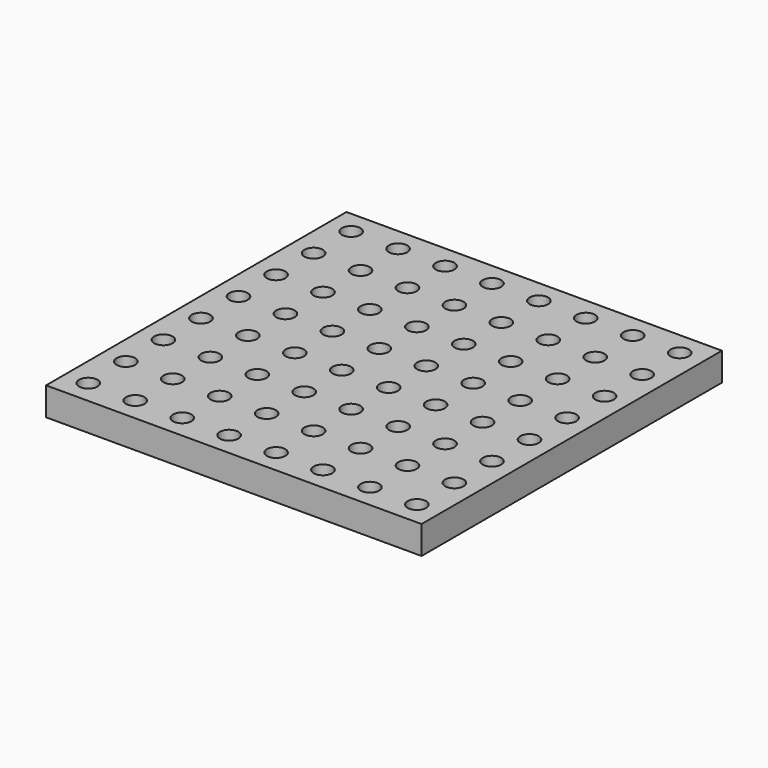
from build123d import *

# Parameters (mm, degrees)
F0_W     = 20.32
F0_H     = 20.32
F0_R     = 0.5
F1_DEPTH = 1.524


with BuildPart() as f1:
    # F0 (on Top) → F1 (new body)
    with BuildSketch(Plane.XY):
        with Locations((8.89, 8.89)):
            Rectangle(F0_W, F0_H)
        Circle(F0_R, mode=Mode.SUBTRACT)
        with Locations((2.54, 0)):
            Circle(F0_R, mode=Mode.SUBTRACT)
        with Locations((0, 2.54)):
            Circle(F0_R, mode=Mode.SUBTRACT)
        with Locations((2.54, 2.54)):
            Circle(F0_R, mode=Mode.SUBTRACT)
        with Locations((5.08, 0)):
            Circle(F0_R, mode=Mode.SUBTRACT)
        with Locations((7.62, 0)):
            Circle(F0_R, mode=Mode.SUBTRACT)
        with Locations((5.08, 2.54)):
            Circle(F0_R, mode=Mode.SUBTRACT)
        with Locations((7.62, 2.54)):
            Circle(F0_R, mode=Mode.SUBTRACT)
        with Locations((0, 5.08)):
            Circle(F0_R, mode=Mode.SUBTRACT)
        with Locations((2.54, 5.08)):
            Circle(F0_R, mode=Mode.SUBTRACT)
        with Locations((0, 7.62)):
            Circle(F0_R, mode=Mode.SUBTRACT)
        with Locations((2.54, 7.62)):
            Circle(F0_R, mode=Mode.SUBTRACT)
        with Locations((5.08, 5.08)):
            Circle(F0_R, mode=Mode.SUBTRACT)
        with Locations((7.62, 5.08)):
            Circle(F0_R, mode=Mode.SUBTRACT)
        with Locations((5.08, 7.62)):
            Circle(F0_R, mode=Mode.SUBTRACT)
        with Locations((7.62, 7.62)):
            Circle(F0_R, mode=Mode.SUBTRACT)
        with Locations((10.16, 0)):
            Circle(F0_R, mode=Mode.SUBTRACT)
        with Locations((12.7, 0)):
            Circle(F0_R, mode=Mode.SUBTRACT)
        with Locations((10.16, 2.54)):
            Circle(F0_R, mode=Mode.SUBTRACT)
        with Locations((12.7, 2.54)):
            Circle(F0_R, mode=Mode.SUBTRACT)
        with Locations((15.24, 0)):
            Circle(F0_R, mode=Mode.SUBTRACT)
        with Locations((17.78, 0)):
            Circle(F0_R, mode=Mode.SUBTRACT)
        with Locations((15.24, 2.54)):
            Circle(F0_R, mode=Mode.SUBTRACT)
        with Locations((17.78, 2.54)):
            Circle(F0_R, mode=Mode.SUBTRACT)
        with Locations((10.16, 5.08)):
            Circle(F0_R, mode=Mode.SUBTRACT)
        with Locations((12.7, 5.08)):
            Circle(F0_R, mode=Mode.SUBTRACT)
        with Locations((10.16, 7.62)):
            Circle(F0_R, mode=Mode.SUBTRACT)
        with Locations((12.7, 7.62)):
            Circle(F0_R, mode=Mode.SUBTRACT)
        with Locations((15.24, 5.08)):
            Circle(F0_R, mode=Mode.SUBTRACT)
        with Locations((17.78, 5.08)):
            Circle(F0_R, mode=Mode.SUBTRACT)
        with Locations((15.24, 7.62)):
            Circle(F0_R, mode=Mode.SUBTRACT)
        with Locations((17.78, 7.62)):
            Circle(F0_R, mode=Mode.SUBTRACT)
        with Locations((0, 10.16)):
            Circle(F0_R, mode=Mode.SUBTRACT)
        with Locations((2.54, 10.16)):
            Circle(F0_R, mode=Mode.SUBTRACT)
        with Locations((0, 12.7)):
            Circle(F0_R, mode=Mode.SUBTRACT)
        with Locations((2.54, 12.7)):
            Circle(F0_R, mode=Mode.SUBTRACT)
        with Locations((5.08, 10.16)):
            Circle(F0_R, mode=Mode.SUBTRACT)
        with Locations((7.62, 10.16)):
            Circle(F0_R, mode=Mode.SUBTRACT)
        with Locations((5.08, 12.7)):
            Circle(F0_R, mode=Mode.SUBTRACT)
        with Locations((7.62, 12.7)):
            Circle(F0_R, mode=Mode.SUBTRACT)
        with Locations((0, 15.24)):
            Circle(F0_R, mode=Mode.SUBTRACT)
        with Locations((2.54, 15.24)):
            Circle(F0_R, mode=Mode.SUBTRACT)
        with Locations((0, 17.78)):
            Circle(F0_R, mode=Mode.SUBTRACT)
        with Locations((2.54, 17.78)):
            Circle(F0_R, mode=Mode.SUBTRACT)
        with Locations((5.08, 15.24)):
            Circle(F0_R, mode=Mode.SUBTRACT)
        with Locations((7.62, 15.24)):
            Circle(F0_R, mode=Mode.SUBTRACT)
        with Locations((5.08, 17.78)):
            Circle(F0_R, mode=Mode.SUBTRACT)
        with Locations((7.62, 17.78)):
            Circle(F0_R, mode=Mode.SUBTRACT)
        with Locations((10.16, 10.16)):
            Circle(F0_R, mode=Mode.SUBTRACT)
        with Locations((12.7, 10.16)):
            Circle(F0_R, mode=Mode.SUBTRACT)
        with Locations((10.16, 12.7)):
            Circle(F0_R, mode=Mode.SUBTRACT)
        with Locations((12.7, 12.7)):
            Circle(F0_R, mode=Mode.SUBTRACT)
        with Locations((15.24, 10.16)):
            Circle(F0_R, mode=Mode.SUBTRACT)
        with Locations((17.78, 10.16)):
            Circle(F0_R, mode=Mode.SUBTRACT)
        with Locations((15.24, 12.7)):
            Circle(F0_R, mode=Mode.SUBTRACT)
        with Locations((17.78, 12.7)):
            Circle(F0_R, mode=Mode.SUBTRACT)
        with Locations((10.16, 15.24)):
            Circle(F0_R, mode=Mode.SUBTRACT)
        with Locations((12.7, 15.24)):
            Circle(F0_R, mode=Mode.SUBTRACT)
        with Locations((10.16, 17.78)):
            Circle(F0_R, mode=Mode.SUBTRACT)
        with Locations((12.7, 17.78)):
            Circle(F0_R, mode=Mode.SUBTRACT)
        with Locations((15.24, 15.24)):
            Circle(F0_R, mode=Mode.SUBTRACT)
        with Locations((17.78, 15.24)):
            Circle(F0_R, mode=Mode.SUBTRACT)
        with Locations((15.24, 17.78)):
            Circle(F0_R, mode=Mode.SUBTRACT)
        with Locations((17.78, 17.78)):
            Circle(F0_R, mode=Mode.SUBTRACT)
    extrude(amount=F1_DEPTH)


solid = f1.part
